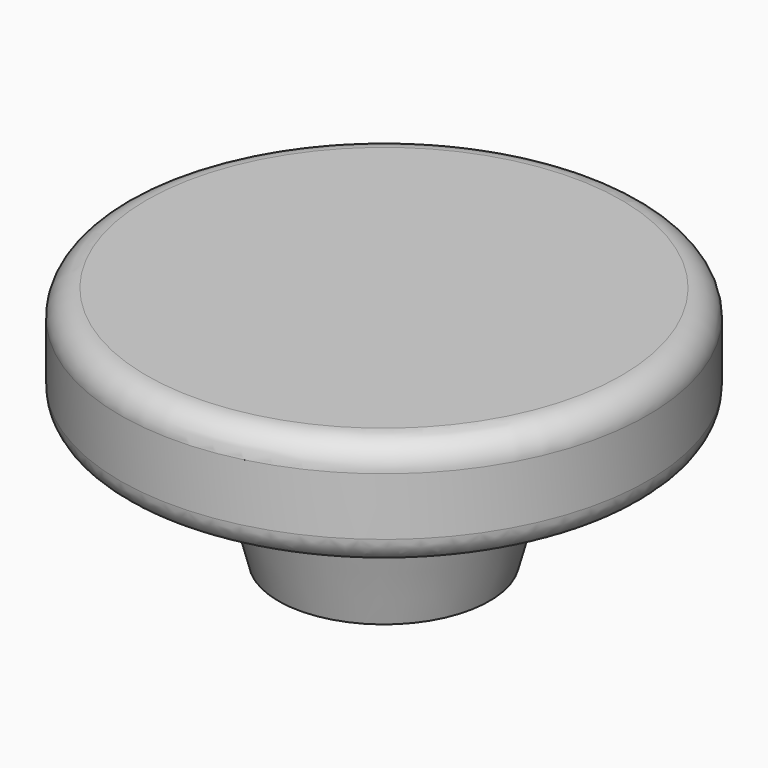
from build123d import *

# Parameters (mm, degrees)
F2_R     = 2.54
F3_R     = 1.27
F4_R     = 2.54
F5_DEPTH = 7.62


with BuildPart() as f1:
    # F0 (on Front) → F1 (revolve)
    with BuildSketch(Plane.XZ):
        Polygon((0, 11.619149), (-12.7, 11.619149), (-12.7, 6.539149), (-6.479921, 5.224574), (-5.08, 0), (0, 0), align=None)
    revolve(axis=Axis((0, 0, 5.809575), (0, 0, 1)))

    # F2
    f2_edges = [f1.edges().sort_by_distance(p)[0] for p in [
        (6.479921, 0, 5.224574),
    ]]
    fillet(f2_edges, radius=F2_R)

    # F3
    f3_edges = [f1.edges().sort_by_distance(p)[0] for p in [
        (12.7, 0, 11.619149),
        (12.7, 0, 6.539149),
    ]]
    fillet(f3_edges, radius=F3_R)

    # F4 (on face) → F5 (cut)
    with BuildSketch(Plane(origin=(0, 0, 0), x_dir=(1, 0, 0), z_dir=(0, 0, -1))):
        Circle(F4_R)
    extrude(amount=-F5_DEPTH, mode=Mode.SUBTRACT)


solid = f1.part
